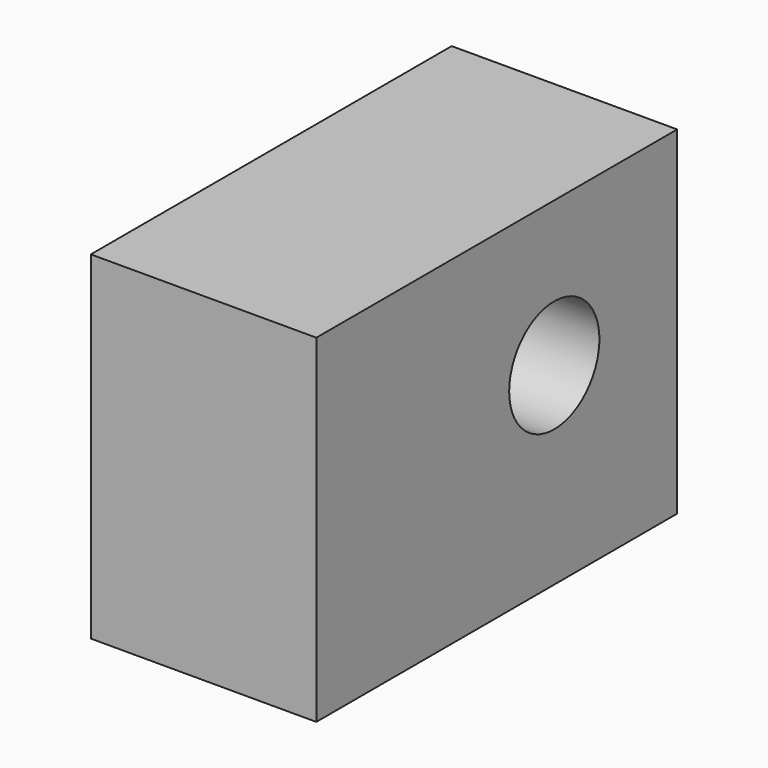
from build123d import *

# Parameters (mm, degrees)
F0_W     = 50
F0_H     = 75
F1_DEPTH = 50
F3_D     = 25


with BuildPart() as f1:
    # F0 (on Front) → F1 (new body, symmetric)
    with BuildSketch(Plane.XZ):
        with Locations((-11.862348, 35.03312)):
            Rectangle(F0_W, F0_H)
    extrude(amount=F1_DEPTH, both=True)

    # F3 (through all)
    with Locations(Plane.YZ.offset(13.137652)):
        with Locations((15.938677, 40.338628)):
            Hole(F3_D / 2)


solid = f1.part
